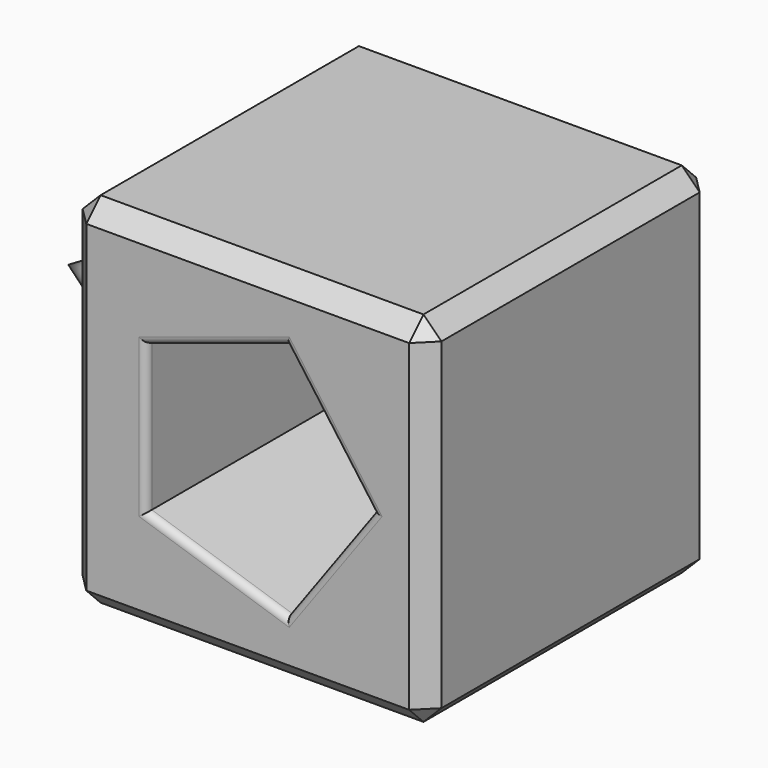
from build123d import *

# Parameters (mm, degrees)
F0_W     = 100
F0_H     = 100
F1_DEPTH = 50
F3_DEPTH = 142.9
F4_SIZE  = 5
F5_R     = 2


with BuildPart() as f1:
    # F0 (on Front) → F1 (new body, symmetric)
    with BuildSketch(Plane.XZ):
        Rectangle(F0_W, F0_H)
    extrude(amount=F1_DEPTH, both=True)

    # F2 (on face) → F3 (cut)
    with BuildSketch(Plane.XZ.offset(50)):
        Polygon((10.815595, -33.286978), (35, 0), (10.815595, 33.286978), (-28.315595, 20.572484), (-28.315595, -20.572484), align=None)
    extrude(amount=-F3_DEPTH, mode=Mode.SUBTRACT)

    # F4
    f4_edges = [f1.edges().sort_by_distance(p)[0] for p in [
        (50, 0, 50),
        (0, 50, 50),
        (-50, 0, 50),
        (0, -50, 50),
        (50, 50, 0),
        (50, -50, 0),
        (50, 0, -50),
        (0, 50, -50),
        (0, -50, -50),
        (-50, 0, -50),
        (-50, 50, 0),
        (-50, -50, 0),
    ]]
    chamfer(f4_edges, length=F4_SIZE)

    # F5
    f5_edges = [f1.edges().sort_by_distance(p)[0] for p in [
        (22.907797, 50, -16.643489),
        (-8.75, 50, -26.929731),
        (-28.315595, 50, 0),
        (-8.75, 50, 26.929731),
        (22.907797, 50, 16.643489),
        (22.907797, -50, -16.643489),
        (22.907797, -50, 16.643489),
        (-8.75, -50, 26.929731),
        (-28.315595, -50, 0),
        (-8.75, -50, -26.929731),
    ]]
    fillet(f5_edges, radius=F5_R)

    # F6 (on Top) → F7 (revolve)
    with BuildSketch(Plane.XY):
        Polygon((-90, 0), (-50, 0), (-50, 23.094011), align=None)
    revolve(axis=Axis((-70, 0, 0), (-1, 0, 0)))


solid = f1.part
